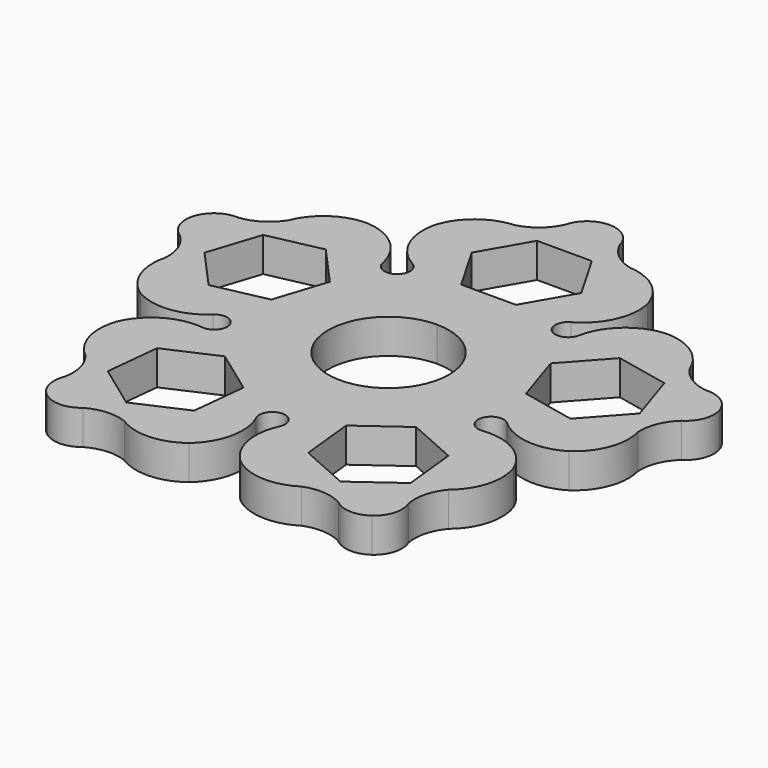
from build123d import *

# Parameters (mm, degrees)
F1_DEPTH = 8


with BuildPart() as f1:
    # F0 (on Top) → F1 (new body)
    with BuildSketch(Plane.XY):
        with BuildLine():
            ThreePointArc((0, 14), (-9.899495, -9.899495), (14, 0))
            ThreePointArc((14, 0), (9.899495, 9.899495), (0, 14))
        make_face()
        with BuildLine():
            ThreePointArc((6.347522, 59.107844), (4.032635, 62.692937), (0, 64.089164))
            ThreePointArc((0, 64.089164), (-4.032635, 62.692937), (-6.347522, 59.107844))
            ThreePointArc((-6.347522, 59.107844), (-9.178693, 55.402974), (-13.333366, 53.286307))
            ThreePointArc((-13.333366, 53.286307), (-20.442135, 50.558658), (-24.717154, 44.257954))
            ThreePointArc((-24.717154, 44.257954), (-23.940515, 36.01526), (-18.369188, 29.891087))
            ThreePointArc((-18.369188, 29.891087), (-18.073469, 24.875996), (-22.751722, 26.70699))
            ThreePointArc((-22.751722, 26.70699), (-26.854522, 33.89811), (-34.453795, 37.18387))
            ThreePointArc((-34.453795, 37.18387), (-41.767174, 35.06511), (-46.558052, 29.147159))
            ThreePointArc((-46.558052, 29.147159), (-49.854987, 25.849917), (-54.253408, 24.302181))
            ThreePointArc((-54.253408, 24.302181), (-58.378374, 23.208447), (-60.952417, 19.804641))
            ThreePointArc((-60.952417, 19.804641), (-60.870679, 15.537919), (-58.176392, 12.228476))
            ThreePointArc((-58.176392, 12.228476), (-55.527732, 8.391005), (-54.798526, 3.785589))
            ThreePointArc((-54.798526, 3.785589), (-54.401108, -3.818141), (-49.729836, -9.830951))
            ThreePointArc((-49.729836, -9.830951), (-41.650573, -11.639455), (-34.104504, -8.233282))
            ThreePointArc((-34.104504, -8.233282), (-29.243487, -9.501785), (-32.430525, -13.38526))
            ThreePointArc((-32.430525, -13.38526), (-40.537522, -15.065076), (-46.01077, -21.277058))
            ThreePointArc((-46.01077, -21.277058), (-46.255668, -28.887228), (-42.107825, -35.272372))
            ThreePointArc((-42.107825, -35.272372), (-39.99077, -39.426847), (-39.877972, -44.08827))
            ThreePointArc((-39.877972, -44.08827), (-40.112455, -48.349328), (-37.670666, -51.849223))
            ThreePointArc((-37.670666, -51.849223), (-33.587513, -53.089975), (-29.607466, -51.55023))
            ThreePointArc((-29.607466, -51.55023), (-25.139332, -50.217048), (-20.533985, -50.946684))
            ThreePointArc((-20.533985, -50.946684), (-13.179599, -52.918399), (-6.017575, -50.333815))
            ThreePointArc((-6.017575, -50.333815), (-1.800955, -43.208839), (-2.708555, -34.979535))
            ThreePointArc((-2.708555, -34.979535), (0, -30.748422), (2.708555, -34.979535))
            ThreePointArc((2.708555, -34.979535), (1.800955, -43.208839), (6.017575, -50.333815))
            ThreePointArc((6.017575, -50.333815), (13.179599, -52.918399), (20.533985, -50.946684))
            ThreePointArc((20.533985, -50.946684), (25.139332, -50.217048), (29.607466, -51.55023))
            ThreePointArc((29.607466, -51.55023), (33.587513, -53.089975), (37.670666, -51.849223))
            ThreePointArc((37.670666, -51.849223), (40.112455, -48.349328), (39.877972, -44.08827))
            ThreePointArc((39.877972, -44.08827), (39.99077, -39.426847), (42.107825, -35.272372))
            ThreePointArc((42.107825, -35.272372), (46.255668, -28.887228), (46.01077, -21.277058))
            ThreePointArc((46.01077, -21.277058), (40.537522, -15.065076), (32.430525, -13.38526))
            ThreePointArc((32.430525, -13.38526), (29.243487, -9.501785), (34.104504, -8.233282))
            ThreePointArc((34.104504, -8.233282), (41.650573, -11.639455), (49.729836, -9.830951))
            ThreePointArc((49.729836, -9.830951), (54.401108, -3.818141), (54.798526, 3.785589))
            ThreePointArc((54.798526, 3.785589), (55.527732, 8.391005), (58.176392, 12.228476))
            ThreePointArc((58.176392, 12.228476), (60.870679, 15.537919), (60.952417, 19.804641))
            ThreePointArc((60.952417, 19.804641), (58.378374, 23.208447), (54.253408, 24.302181))
            ThreePointArc((54.253408, 24.302181), (49.854987, 25.849917), (46.558052, 29.147159))
            ThreePointArc((46.558052, 29.147159), (41.767174, 35.06511), (34.453795, 37.18387))
            ThreePointArc((34.453795, 37.18387), (26.854522, 33.89811), (22.751722, 26.70699))
            ThreePointArc((22.751722, 26.70699), (18.073469, 24.875996), (18.369188, 29.891087))
            ThreePointArc((18.369188, 29.891087), (23.940515, 36.01526), (24.717154, 44.257954))
            ThreePointArc((24.717154, 44.257954), (20.442135, 50.558658), (13.333366, 53.286307))
            ThreePointArc((13.333366, 53.286307), (9.178693, 55.402974), (6.347522, 59.107844))
        make_face()
        Polygon((-11.907824, -27.194431), (-13.235514, -39.826555), (-24.8391, -44.992804), (-35.114996, -37.526929), (-33.787306, -24.894804), (-22.18372, -19.728555), align=None, mode=Mode.SUBTRACT)
        with BuildLine():
            ThreePointArc((0, 14), (9.899495, 9.899495), (14, 0))
            ThreePointArc((14, 0), (-9.899495, -9.899495), (0, 14))
        make_face(mode=Mode.SUBTRACT)
        Polygon((22.18372, -19.728555), (33.787306, -24.894804), (35.114996, -37.526929), (24.8391, -44.992804), (13.235514, -39.826555), (11.907824, -27.194431), align=None, mode=Mode.SUBTRACT)
        Polygon((-29.54316, 2.921473), (-41.967304, 0.28064), (-50.466404, 9.719847), (-46.541361, 21.799887), (-34.117218, 24.44072), (-25.618117, 15.001513), align=None, mode=Mode.SUBTRACT)
        Polygon((6.350853, 29), (0, 29), (-6.350853, 29), (-12.701706, 40), (-6.350853, 51), (0, 51), (6.350853, 51), (12.701706, 40), align=None, mode=Mode.SUBTRACT)
        Polygon((25.618117, 15.001513), (34.117218, 24.44072), (46.541361, 21.799887), (50.466404, 9.719847), (41.967304, 0.28064), (29.54316, 2.921473), align=None, mode=Mode.SUBTRACT)
    extrude(amount=F1_DEPTH)


solid = f1.part
